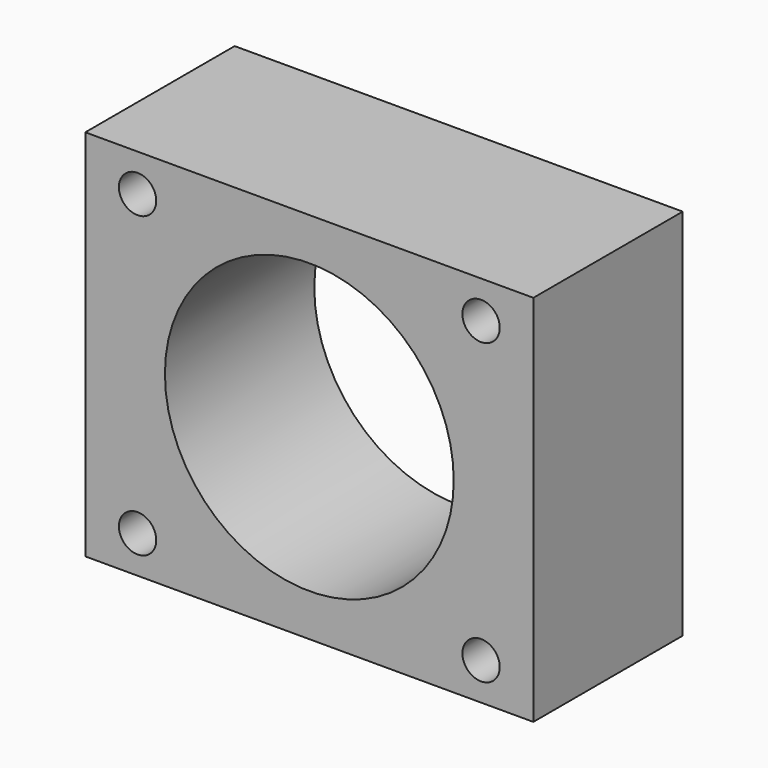
from build123d import *

# Parameters (mm, degrees)
F0_W     = 60
F0_H     = 50
F1_DEPTH = 25
F2_R     = 2.5
F2_R_2   = 19.336866
F3_DEPTH = 25.001


with BuildPart() as f1:
    # F0 (on Front) → F1 (new body)
    with BuildSketch(Plane.XZ):
        Rectangle(F0_W, F0_H)
    extrude(amount=F1_DEPTH)

    # F2 (on face) → F3 (cut, through all)
    with BuildSketch(Plane.XZ.offset(25)):
        with Locations((-23, 20)):
            Circle(F2_R)
        with Locations((23, 20)):
            Circle(F2_R)
        with Locations((-23, -20)):
            Circle(F2_R)
        with Locations((23, -20)):
            Circle(F2_R)
        Circle(F2_R_2)
    extrude(amount=-F3_DEPTH, mode=Mode.SUBTRACT)


solid = f1.part
